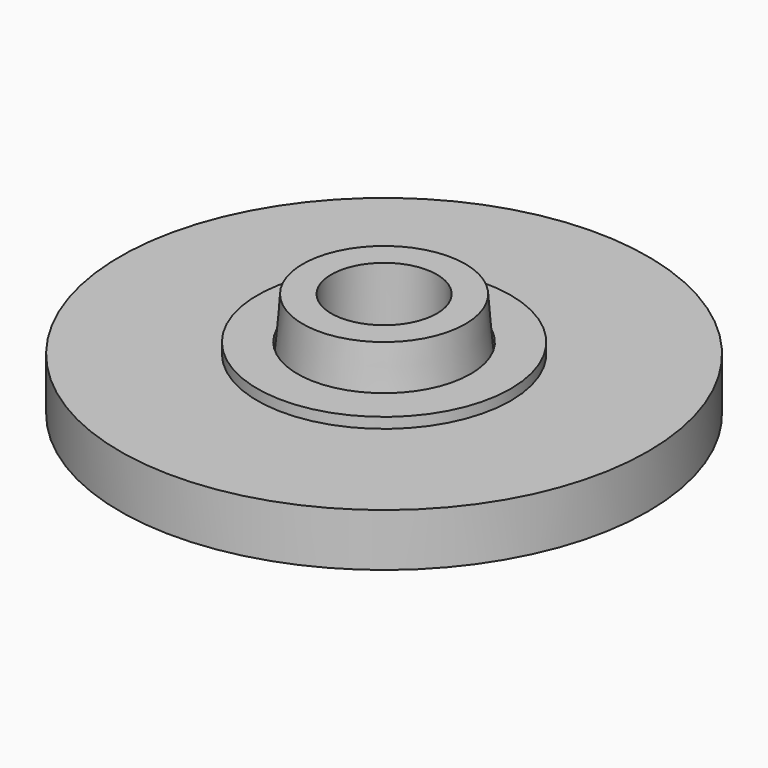
from build123d import *

# Parameters (mm, degrees)
F0_R     = 4.1
F0_R_2   = 2.5
F1_DEPTH = 5
F0_R_3   = 12.5
F0_R_4   = 6
F2_DEPTH = 2.5
F3_DEPTH = 3
F4_SIZE2 = 3
F4_SIZE  = 0.25


with BuildPart() as f1:
    # F0 (on Top) → F1 (new body)
    with BuildSketch(Plane.XY):
        Circle(F0_R)
        Circle(F0_R_2, mode=Mode.SUBTRACT)
    extrude(amount=F1_DEPTH)

    # F4
    f4_edges = [f1.edges().sort_by_distance(p)[0] for p in [
        (-4.1, 0, 5),
    ]]
    f4_side = f1.faces().sort_by_distance((-3.984034, 0, 5))[0]
    chamfer(f4_edges, length=F4_SIZE, length2=F4_SIZE2, reference=f4_side)


with BuildPart() as f2:
    # F0 (on Top) → F2 (new body)
    with BuildSketch(Plane.XY):
        Circle(F0_R_3)
        Circle(F0_R_4, mode=Mode.SUBTRACT)
    extrude(amount=F2_DEPTH)


with BuildPart() as f3:
    # F0 (on Top) → F3 (new body)
    with BuildSketch(Plane.XY):
        Circle(F0_R_4)
        Circle(F0_R, mode=Mode.SUBTRACT)
    extrude(amount=F3_DEPTH)


solid = Compound([f1.part, f2.part, f3.part])
